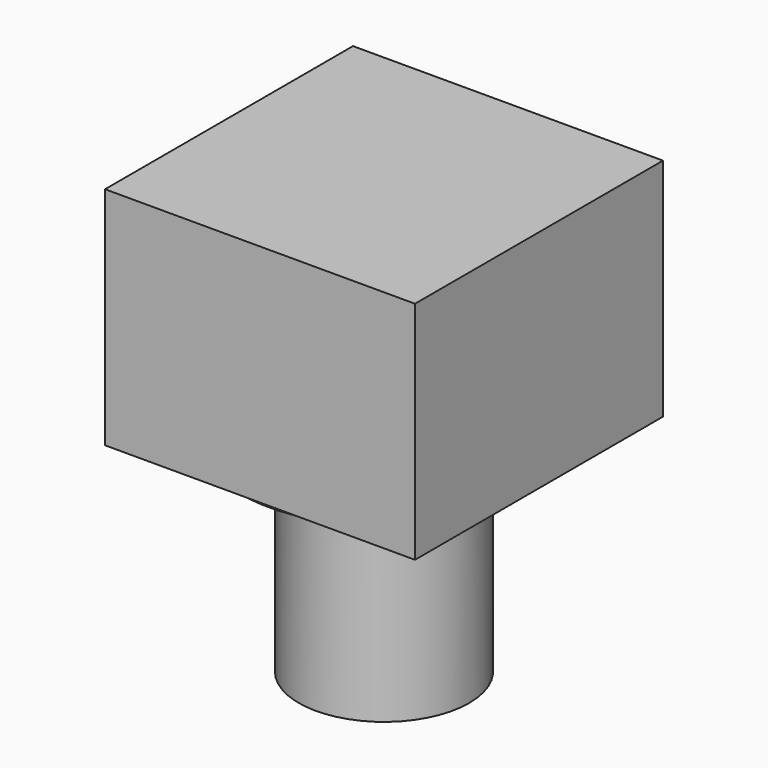
from build123d import *

# Parameters (mm, degrees)
F2_DEPTH = 34.925


with BuildPart() as f1:
    # F0 (on Front) → F1 (revolve)
    with BuildSketch(Plane.XZ):
        Polygon((32.4, 40.1588447371), (0, 40.1588447371), (0, -7.5654675063), (19.2, -7.5654675063), (19.2, 30.5378211838), (32.4, 38.1588447371), align=None)
    revolve(axis=Axis((0, 0, 16.2966886154), (0, 0, 1)))

    # F0 (on Front) → F2 (join, symmetric)
    with BuildSketch(Plane.XZ):
        Polygon((-34.925, 90.9588447371), (-34.925, 40.1588447371), (0, 40.1588447371), (32.4, 40.1588447371), (34.925, 40.1588447371), (34.925, 90.9588447371), align=None)
    extrude(amount=F2_DEPTH, both=True)


solid = f1.part
